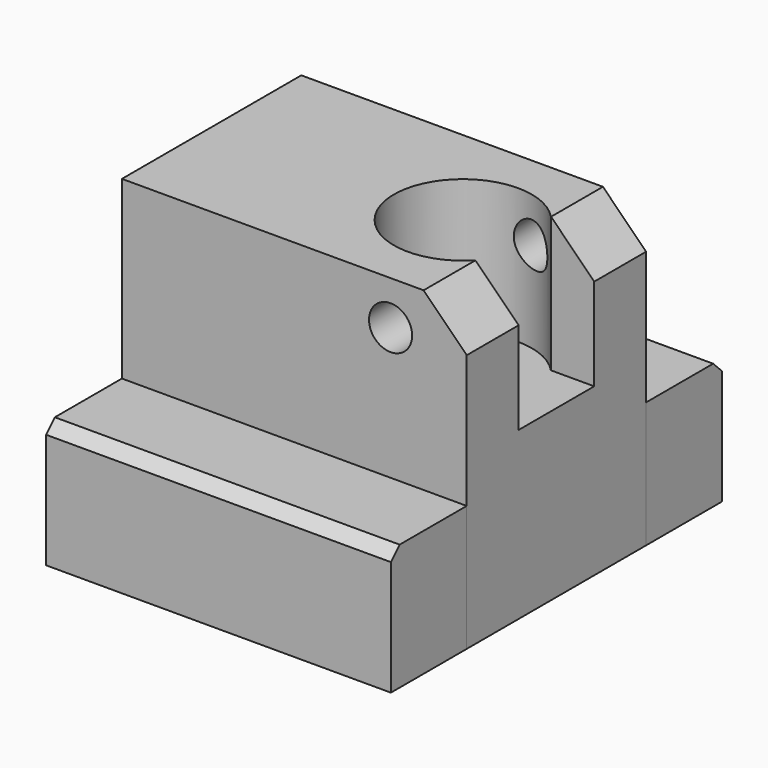
from build123d import *

# Parameters (mm, degrees)
F0_W      = 40.005
F0_H      = 10.9982
F1_DEPTH  = 14.605
F2_DEPTH  = 35.0012
F3_DEPTH  = 19.304
F4_SIZE   = 5.0038
F5_R      = 2.5019
F6_DEPTH  = 25.4
F7_SIZE   = 1.27
F7_2_SIZE = 1.27


with BuildPart() as f1:
    # F0 (on Top) → F1 (new body)
    with BuildSketch(Plane.XY):
        with Locations((0, -18.5039)):
            Rectangle(F0_W, F0_H)
    extrude(amount=F1_DEPTH)

    # F7#2
    f7_2_edges = [f1.edges().sort_by_distance(p)[0] for p in [
        (0, -24.003, 14.605),
    ]]
    chamfer(f7_2_edges, length=F7_2_SIZE)


with BuildPart() as f1b:
    # F0 (on Top) → F1, piece 2 (new body)
    with BuildSketch(Plane.XY):
        with Locations((0, 18.5039)):
            Rectangle(F0_W, F0_H)
    extrude(amount=F1_DEPTH)

    # F7
    f7_edges = [f1b.edges().sort_by_distance(p)[0] for p in [
        (0, 24.003, 14.605),
    ]]
    chamfer(f7_edges, length=F7_SIZE)


with BuildPart() as f2:
    # F0 (on Top) → F2 (new body)
    with BuildSketch(Plane.XY):
        with BuildLine():
            Line((-20.0025, -13.0048), (20.0025, -13.0048))
            Line((20.0025, -13.0048), (20.0025, -5.4828948))
            Line((20.0025, -5.4828948), (14.9763364049, -5.4828948))
            ThreePointArc((14.9763364049, -5.4828948), (1.148341844, 0), (14.9763364049, 5.4828948))
            Line((14.9763364049, 5.4828948), (20.0025, 5.4828948))
            Line((20.0025, 5.4828948), (20.0025, 13.0048))
            Line((20.0025, 13.0048), (-20.0025, 13.0048))
            Line((-20.0025, 13.0048), (-20.0025, -13.0048))
        make_face()
    extrude(amount=F2_DEPTH)

    # F0 (on Top) → F3 (join)
    with BuildSketch(Plane.XY):
        with BuildLine():
            ThreePointArc((14.9763364049, 5.4828948), (1.148341844, 0), (14.9763364049, -5.4828948))
            ThreePointArc((14.9763364049, -5.4828948), (16.5870089676, -2.9490860888), (17.150341844, 0))
            ThreePointArc((17.150341844, 0), (16.5870089676, 2.9490860888), (14.9763364049, 5.4828948))
        make_face()
        with BuildLine():
            Line((14.9763364049, -5.4828948), (20.0025, -5.4828948))
            Line((20.0025, -5.4828948), (20.0025, 5.4828948))
            Line((20.0025, 5.4828948), (14.9763364049, 5.4828948))
            ThreePointArc((14.9763364049, 5.4828948), (16.5870089676, 2.9490860888), (17.150341844, 0))
            ThreePointArc((17.150341844, 0), (16.5870089676, -2.9490860888), (14.9763364049, -5.4828948))
        make_face()
    extrude(amount=F3_DEPTH)

    # F4
    f4_edges = [f2.edges().sort_by_distance(p)[0] for p in [
        (20.0025, -9.243847, 35.0012),
        (20.0025, 9.243847, 35.0012),
    ]]
    chamfer(f4_edges, length=F4_SIZE)

    # F5 (on face) → F6 (cut)
    with BuildSketch(Plane.XZ.offset(13.0048)):
        with Locations((11.1658386886, 29.93693389)):
            Circle(F5_R)
    extrude(amount=-F6_DEPTH, mode=Mode.SUBTRACT)


solid = Compound([f1.part, f1b.part, f2.part])
